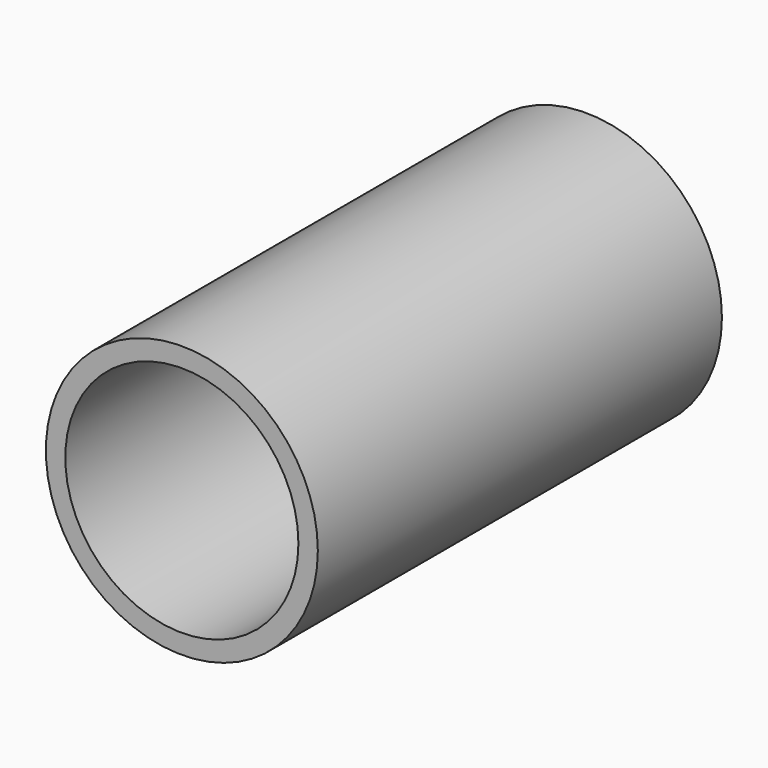
from build123d import *

# Parameters (mm, degrees)
F0_R     = 44.45
F1_DEPTH = 165.1
F2_R     = 38.1
F3_DEPTH = 254
F4_W     = 86.713158
F4_H     = 16.258716
F5_DEPTH = 25.4
F6_W     = 50.8
F6_H     = 16.258716
F7_DEPTH = 25.4
F8_R     = 2.54
F9_DEPTH = 25.4


with BuildPart() as f1:
    # F0 (on Front) → F1 (new body)
    with BuildSketch(Plane.XZ):
        Circle(F0_R)
    extrude(amount=F1_DEPTH)

    # F2 (on face) → F3 (cut)
    with BuildSketch(Plane.XZ.offset(165.1)):
        Circle(F2_R)
    extrude(amount=-F3_DEPTH, mode=Mode.SUBTRACT)

    # F4 (on Front) → F5 (join)
    with BuildSketch(Plane.XZ):
        Rectangle(F4_W, F4_H)
    extrude(amount=F5_DEPTH)

    # F6 (on face) → F7 (cut)
    with BuildSketch(Plane(origin=(0, 0, 0), x_dir=(-1, 0, 0), z_dir=(0, 1, 0))):
        Rectangle(F6_W, F6_H)
    extrude(amount=-F7_DEPTH, mode=Mode.SUBTRACT)

    # F8 (on face) → F9 (join)
    with BuildSketch(Plane.XZ.offset(25.4)):
        with Locations((31.311311, 0)):
            Circle(F8_R)
        with Locations((-31.311311, 0)):
            Circle(F8_R)
    extrude(amount=F9_DEPTH)


solid = f1.part
